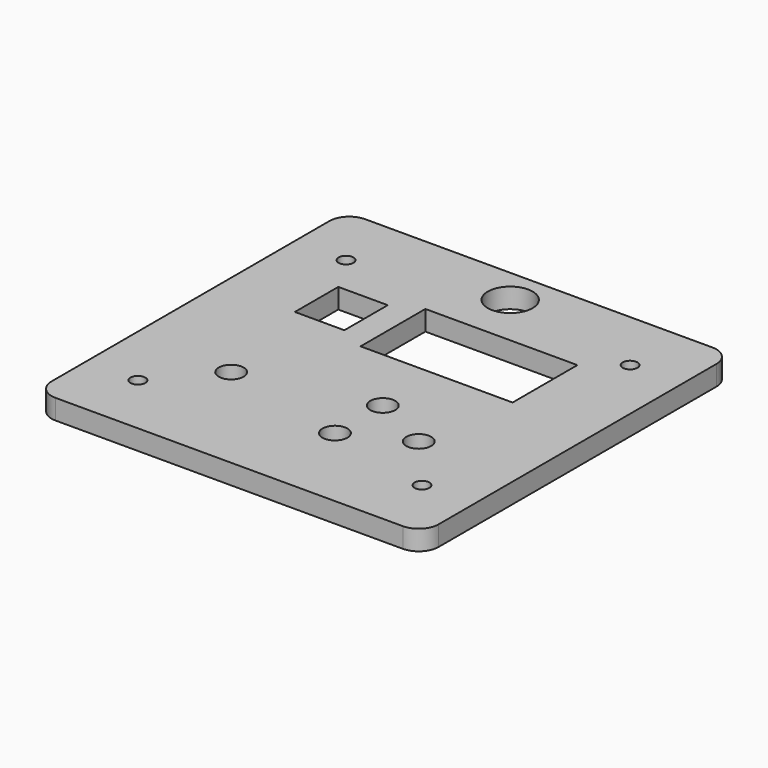
from build123d import *

# Parameters (mm, degrees)
F0_R     = 2.3495
F0_R_2   = 3.96875
F0_W     = 15.748
F0_H     = 17.272
F0_W_2   = 48.387
F0_H_2   = 25.781
F0_R_3   = 7.14375
F1_DEPTH = 6.35


with BuildPart() as f1:
    # F0 (on Top) → F1 (new body)
    with BuildSketch(Plane.XY):
        with BuildLine():
            ThreePointArc((61.595, 55.245), (59.735128, 59.735128), (55.245, 61.595))
            Line((55.245, 61.595), (-55.245, 61.595))
            ThreePointArc((-55.245, 61.595), (-59.735128, 59.735128), (-61.595, 55.245))
            Line((-61.595, 55.245), (-61.595, -55.245))
            ThreePointArc((-61.595, -55.245), (-59.735128, -59.735128), (-55.245, -61.595))
            Line((-55.245, -61.595), (55.245, -61.595))
            ThreePointArc((55.245, -61.595), (59.735128, -59.735128), (61.595, -55.245))
            Line((61.595, -55.245), (61.595, 55.245))
        make_face()
        with Locations((-45.212, -41.402)):
            Circle(F0_R, mode=Mode.SUBTRACT)
        with Locations((-29.845, -23.495)):
            Circle(F0_R_2, mode=Mode.SUBTRACT)
        with Locations((10.795, -33.02)):
            Circle(F0_R_2, mode=Mode.SUBTRACT)
        with Locations((45.212, -41.402)):
            Circle(F0_R, mode=Mode.SUBTRACT)
        with Locations((29.845, -23.495)):
            Circle(F0_R_2, mode=Mode.SUBTRACT)
        with Locations((10.795, -13.97)):
            Circle(F0_R_2, mode=Mode.SUBTRACT)
        with Locations((-29.845, 20.32)):
            Rectangle(F0_W, F0_H, mode=Mode.SUBTRACT)
        with Locations((-45.212, 41.402)):
            Circle(F0_R, mode=Mode.SUBTRACT)
        with Locations((10.795, 20.32)):
            Rectangle(F0_W_2, F0_H_2, mode=Mode.SUBTRACT)
        with Locations((0, 50.224401)):
            Circle(F0_R_3, mode=Mode.SUBTRACT)
        with Locations((45.212, 41.402)):
            Circle(F0_R, mode=Mode.SUBTRACT)
    extrude(amount=F1_DEPTH)


solid = f1.part
